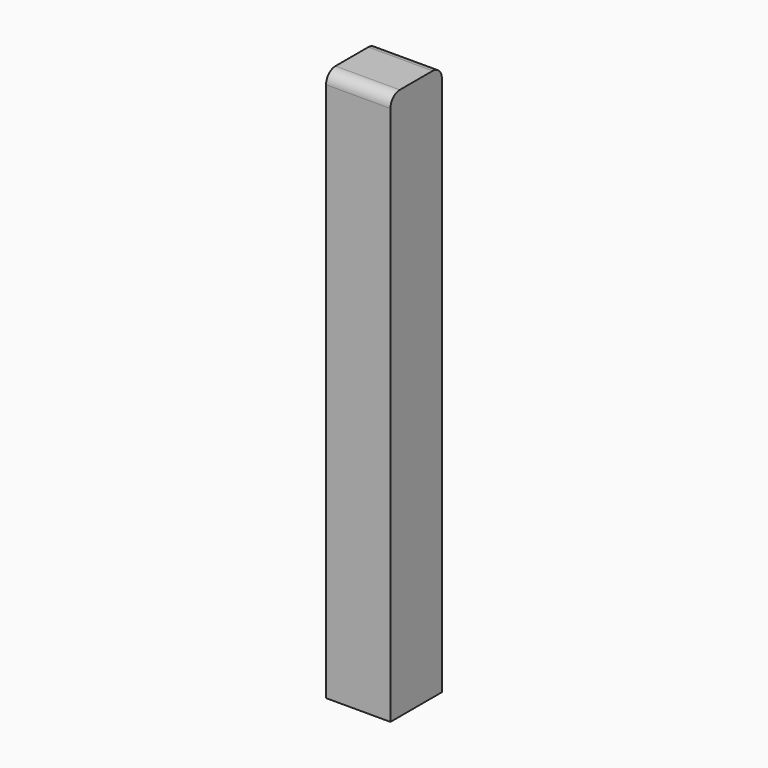
from build123d import *

# Parameters (mm, degrees)
F0_W     = 70
F0_H     = 600
F1_DEPTH = 35
F2_R     = 12.7


with BuildPart() as f1:
    # F0 (on Front) → F1 (new body, symmetric)
    with BuildSketch(Plane.XZ):
        Rectangle(F0_W, F0_H)
    extrude(amount=F1_DEPTH, both=True)

    # F2
    f2_edges = [f1.edges().sort_by_distance(p)[0] for p in [
        (0, -35, 300),
        (0, 35, 300),
    ]]
    fillet(f2_edges, radius=F2_R)


solid = f1.part
